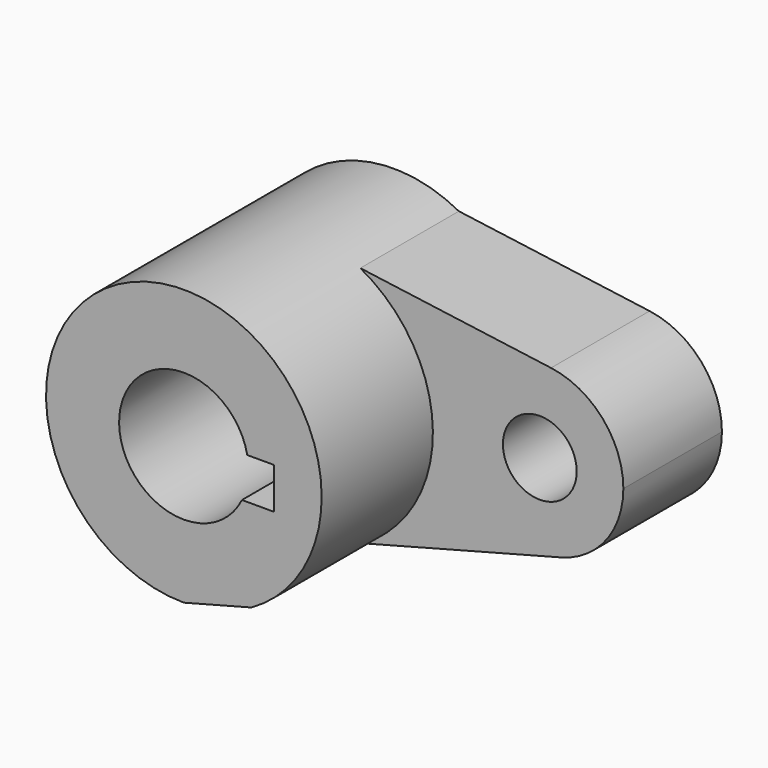
from build123d import *

# Parameters (mm, degrees)
F0_R     = 7.6083781551
F1_DEPTH = 25.4
F2_DEPTH = 16.33147
F3_DEPTH = 54.06381


with BuildPart() as f1:
    # F0 (on Front) → F1 (new body)
    with BuildSketch(Plane.XZ):
        with BuildLine():
            ThreePointArc((13.9462792399, -27.3820497182), (24.5288614061, -16.9645417548), (28.40983312, -2.6308898814))
            ThreePointArc((28.40983312, -2.6308898814), (24.3839357983, 11.9479404177), (13.4472466105, 22.394900346))
            ThreePointArc((13.4472466105, 22.394900346), (-27.5508361213, 4.3023667074), (0, -31.0407230014))
            Line((0, -31.0407230014), (13.9462792399, -27.3820497182))
        make_face()
        with BuildLine():
            ThreePointArc((-13.0795865189, 0), (0, 10.7106679389), (13.0795865189, 0))
            Line((13.0795865189, 0), (18.5709875077, 0))
            Line((18.5709875077, 0), (18.5709875077, -8.5117025301))
            Line((18.5709875077, -8.5117025301), (11.9755253606, -8.5117025301))
            ThreePointArc((11.9755253606, -8.5117025301), (0, -15.9724477017), (-11.9755253606, -8.5117025301))
            Line((-11.9755253606, -8.5117025301), (-17.9519541562, -8.5117025301))
            Line((-17.9519541562, -8.5117025301), (-17.9519541562, 0))
            Line((-17.9519541562, 0), (-13.0795865189, 0))
        make_face(mode=Mode.SUBTRACT)
        with BuildLine():
            ThreePointArc((13.4472466105, 22.394900346), (24.3839357983, 11.9479404177), (28.40983312, -2.6308898814))
            ThreePointArc((28.40983312, -2.6308898814), (24.5288614061, -16.9645417548), (13.9462792399, -27.3820497182))
            Line((13.9462792399, -27.3820497182), (54.8214644814, -16.6588349012))
            ThreePointArc((54.8214644814, -16.6588349012), (33.2605864945, -1.0486865195), (52.764098421, 17.0665340036))
            Line((52.764098421, 17.0665340036), (13.4472466105, 22.394900346))
        make_face()
        with BuildLine():
            ThreePointArc((67.6737267911, 0), (63.4213470707, 11.3309708435), (52.764098421, 17.0665340036))
            ThreePointArc((52.764098421, 17.0665340036), (33.2605864945, -1.0486865195), (54.8214644814, -16.6588349012))
            ThreePointArc((54.8214644814, -16.6588349012), (64.0872268937, -10.5201880537), (67.6737267911, 0))
        make_face()
        with Locations((50.4511781037, 0)):
            Circle(F0_R, mode=Mode.SUBTRACT)
        with BuildLine():
            ThreePointArc((-11.9755253606, -8.5117025301), (-13.2307190966, -4.3470592374), (-13.0795865189, 0))
            Line((-13.0795865189, 0), (-17.9519541562, 0))
            Line((-17.9519541562, 0), (-17.9519541562, -8.5117025301))
            Line((-17.9519541562, -8.5117025301), (-11.9755253606, -8.5117025301))
        make_face()
    extrude(amount=F1_DEPTH)

    # F0 (on Front) → F2 (join)
    with BuildSketch(Plane.XZ):
        with BuildLine():
            ThreePointArc((13.9462792399, -27.3820497182), (24.5288614061, -16.9645417548), (28.40983312, -2.6308898814))
            ThreePointArc((28.40983312, -2.6308898814), (24.3839357983, 11.9479404177), (13.4472466105, 22.394900346))
            ThreePointArc((13.4472466105, 22.394900346), (-27.5508361213, 4.3023667074), (0, -31.0407230014))
            Line((0, -31.0407230014), (13.9462792399, -27.3820497182))
        make_face()
        with BuildLine():
            ThreePointArc((-13.0795865189, 0), (0, 10.7106679389), (13.0795865189, 0))
            Line((13.0795865189, 0), (18.5709875077, 0))
            Line((18.5709875077, 0), (18.5709875077, -8.5117025301))
            Line((18.5709875077, -8.5117025301), (11.9755253606, -8.5117025301))
            ThreePointArc((11.9755253606, -8.5117025301), (0, -15.9724477017), (-11.9755253606, -8.5117025301))
            Line((-11.9755253606, -8.5117025301), (-17.9519541562, -8.5117025301))
            Line((-17.9519541562, -8.5117025301), (-17.9519541562, 0))
            Line((-17.9519541562, 0), (-13.0795865189, 0))
        make_face(mode=Mode.SUBTRACT)
        with BuildLine():
            ThreePointArc((13.4472466105, 22.394900346), (24.3839357983, 11.9479404177), (28.40983312, -2.6308898814))
            ThreePointArc((28.40983312, -2.6308898814), (24.5288614061, -16.9645417548), (13.9462792399, -27.3820497182))
            Line((13.9462792399, -27.3820497182), (54.8214644814, -16.6588349012))
            ThreePointArc((54.8214644814, -16.6588349012), (33.2605864945, -1.0486865195), (52.764098421, 17.0665340036))
            Line((52.764098421, 17.0665340036), (13.4472466105, 22.394900346))
        make_face()
        with BuildLine():
            ThreePointArc((0, -31.0407230014), (7.2091017962, -30.1108365553), (13.9462792399, -27.3820497182))
            Line((13.9462792399, -27.3820497182), (0, -31.0407230014))
        make_face()
        with BuildLine():
            ThreePointArc((67.6737267911, 0), (63.4213470707, 11.3309708435), (52.764098421, 17.0665340036))
            ThreePointArc((52.764098421, 17.0665340036), (33.2605864945, -1.0486865195), (54.8214644814, -16.6588349012))
            ThreePointArc((54.8214644814, -16.6588349012), (64.0872268937, -10.5201880537), (67.6737267911, 0))
        make_face()
        with Locations((50.4511781037, 0)):
            Circle(F0_R, mode=Mode.SUBTRACT)
    extrude(amount=F2_DEPTH)

    # F0 (on Front) → F3 (join)
    with BuildSketch(Plane.XZ):
        with BuildLine():
            ThreePointArc((13.9462792399, -27.3820497182), (24.5288614061, -16.9645417548), (28.40983312, -2.6308898814))
            ThreePointArc((28.40983312, -2.6308898814), (24.3839357983, 11.9479404177), (13.4472466105, 22.394900346))
            ThreePointArc((13.4472466105, 22.394900346), (-27.5508361213, 4.3023667074), (0, -31.0407230014))
            Line((0, -31.0407230014), (13.9462792399, -27.3820497182))
        make_face()
        with BuildLine():
            ThreePointArc((-13.0795865189, 0), (0, 10.7106679389), (13.0795865189, 0))
            Line((13.0795865189, 0), (18.5709875077, 0))
            Line((18.5709875077, 0), (18.5709875077, -8.5117025301))
            Line((18.5709875077, -8.5117025301), (11.9755253606, -8.5117025301))
            ThreePointArc((11.9755253606, -8.5117025301), (0, -15.9724477017), (-11.9755253606, -8.5117025301))
            Line((-11.9755253606, -8.5117025301), (-17.9519541562, -8.5117025301))
            Line((-17.9519541562, -8.5117025301), (-17.9519541562, 0))
            Line((-17.9519541562, 0), (-13.0795865189, 0))
        make_face(mode=Mode.SUBTRACT)
        with BuildLine():
            ThreePointArc((-11.9755253606, -8.5117025301), (-13.2307190966, -4.3470592374), (-13.0795865189, 0))
            Line((-13.0795865189, 0), (-17.9519541562, 0))
            Line((-17.9519541562, 0), (-17.9519541562, -8.5117025301))
            Line((-17.9519541562, -8.5117025301), (-11.9755253606, -8.5117025301))
        make_face()
    extrude(amount=F3_DEPTH)


solid = f1.part
